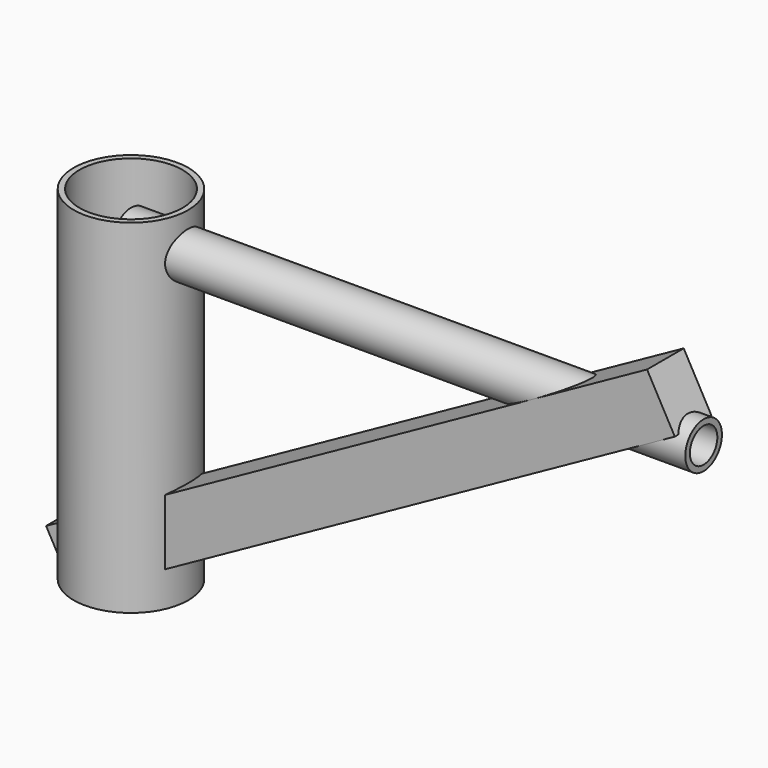
from build123d import *

# Parameters (mm, degrees)
F0_R     = 50
F0_R_2   = 45
F1_DEPTH = 300
F5_W     = 40
F5_H     = 50
F6_DEPTH = 600
F7_R     = 20
F7_R_2   = 15
F8_DEPTH = 500


with BuildPart() as f1:
    # F0 (on Top) → F1 (new body)
    with BuildSketch(Plane.XY):
        Circle(F0_R)
        Circle(F0_R_2, mode=Mode.SUBTRACT)
    extrude(amount=F1_DEPTH)


with BuildPart() as f6:
    # F5 (on face) → F6 (new body)
    with BuildSketch(Plane(origin=(-31.697484, 0, -17.570202), x_dir=(0, -1, 0), z_dir=(-0.87462, 0, -0.48481))):
        with Locations((0, 29.554279)):
            Rectangle(F5_W, F5_H)
    extrude(amount=-F6_DEPTH)


with BuildPart() as f8:
    # F7 (on Right) → F8 (new body)
    with BuildSketch(Plane.YZ):
        with Locations((0, 265.524238)):
            Circle(F7_R)
        with Locations((0, 265.524238)):
            Circle(F7_R_2, mode=Mode.SUBTRACT)
    extrude(amount=F8_DEPTH)


solid = Compound([f1.part, f6.part, f8.part])
